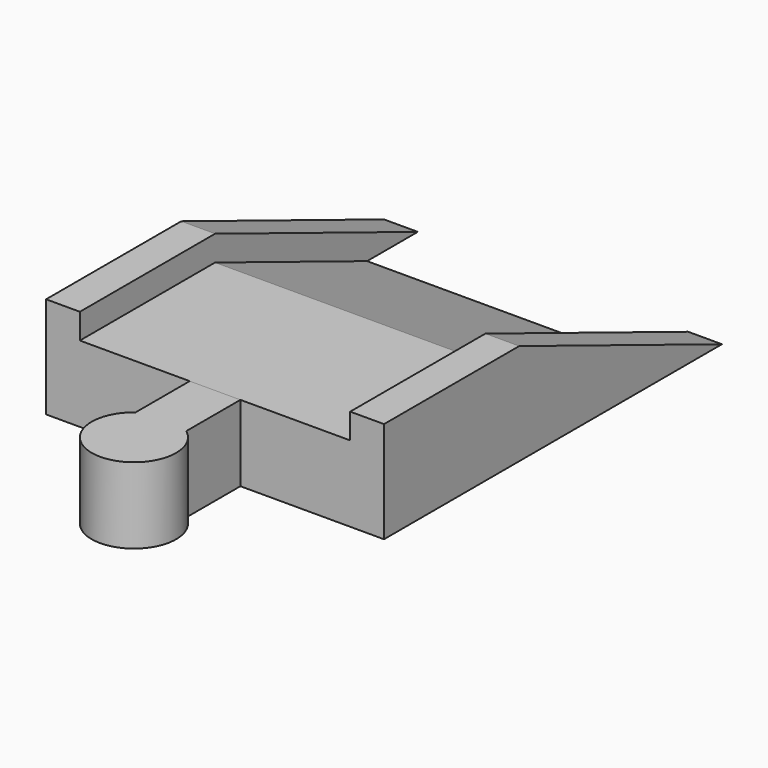
from build123d import *

# Parameters (mm, degrees)
SKETCH004_W          = 40
SKETCH004_H          = 12
POCKET001_DEPTH      = 50.001
POCKET001_DEPTH_BACK = -0.001
POCKET_DEPTH         = 50.001
POCKET_DEPTH_BACK    = -0.001
PAD_DEPTH            = 3
PAD_DEPTH_BACK       = 6


with BuildPart() as body:
    # AdditivePipe: sweep along a path in Sketch
    with BuildLine(Plane.YZ) as additivepipe_path:
        Line((0, 0), (20, 0))
        Line((20, 0), (50, -12))
    # Sketch001 → AdditivePipe (sweep)
    with BuildSketch(Plane.XZ):
        Polygon((-20, 6), (-20, -6), (20, -6), (20, 6), (16, 6), (16, 3), (9, 3), (-9, 3), (-16, 3), (-16, 6), align=None)
    sweep(path=additivepipe_path.line)

    # Sketch004 → Pocket001 (cut, two sides)
    with BuildSketch(Plane.XZ) as pocket001_sk:
        with Locations((0, -12)):
            Rectangle(SKETCH004_W, SKETCH004_H)
    extrude(amount=-POCKET001_DEPTH, mode=Mode.SUBTRACT)
    extrude(pocket001_sk.sketch, amount=-POCKET001_DEPTH_BACK, mode=Mode.SUBTRACT)

    # Sketch004 → Pocket (cut, two sides)
    with BuildSketch(Plane.XZ) as pocket_sk:
        with Locations((0, -12)):
            Rectangle(SKETCH004_W, SKETCH004_H)
    extrude(amount=-POCKET_DEPTH, mode=Mode.SUBTRACT)
    extrude(pocket_sk.sketch, amount=-POCKET_DEPTH_BACK, mode=Mode.SUBTRACT)


with BuildPart() as body001:
    # Sketch005 → Pad (new body, two sides)
    with BuildSketch(Plane.XY) as pad_sk:
        with BuildLine():
            Line((-3, 0), (3, 0))
            Line((3, 0), (3, -8))
            ThreePointArc((-3, -8), (0, -17), (3, -8))
            Line((-3, 0), (-3, -8))
        make_face()
    extrude(amount=PAD_DEPTH)
    extrude(pad_sk.sketch, amount=-PAD_DEPTH_BACK)


solid = Compound([body.part, body001.part])
